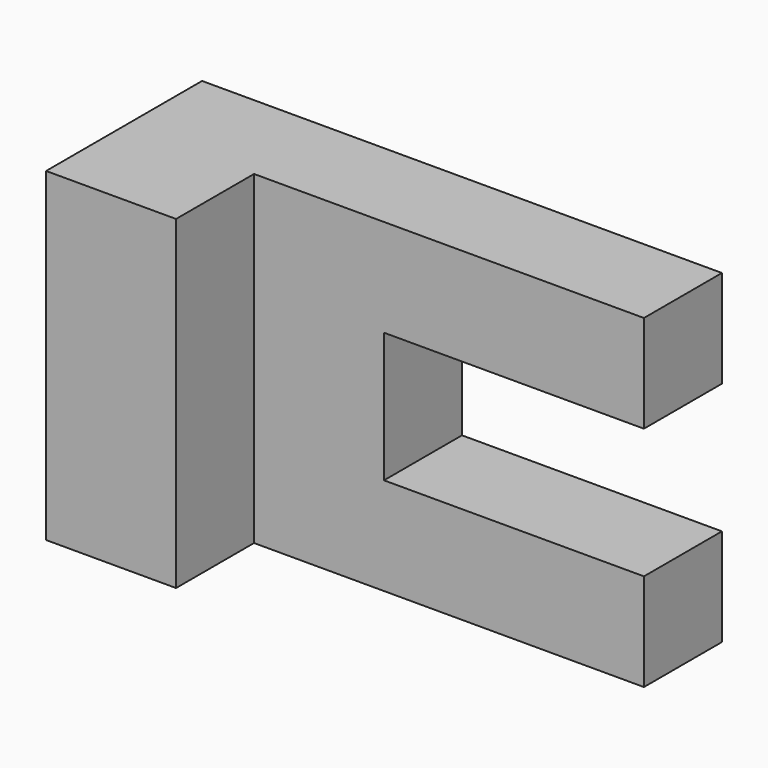
from build123d import *

# Parameters (mm, degrees)
F0_W     = 101.6
F0_H     = 63.5
F1_DEPTH = 38.1
F2_W     = 50.8
F2_H     = 25.4
F3_DEPTH = 38.101
F4_DEPTH = 19.05


with BuildPart() as f1:
    # F0 (on Front) → F1 (new body)
    with BuildSketch(Plane.XZ):
        Rectangle(F0_W, F0_H)
    extrude(amount=F1_DEPTH)

    # F2 (on face) → F3 (cut, through all)
    with BuildSketch(Plane.XZ.offset(38.1)):
        with Locations((25.4, 0)):
            Rectangle(F2_W, F2_H)
    extrude(amount=-F3_DEPTH, mode=Mode.SUBTRACT)

    # F2 (on face) → F4 (cut)
    with BuildSketch(Plane.XZ.offset(38.1)):
        with Locations((25.4, 0)):
            Rectangle(F2_W, F2_H)
        Polygon((50.8, 31.75), (-25.4, 31.75), (-25.4, -31.75), (50.8, -31.75), (50.8, -12.7), (0, -12.7), (0, 12.7), (50.8, 12.7), align=None)
    extrude(amount=-F4_DEPTH, mode=Mode.SUBTRACT)


solid = f1.part
